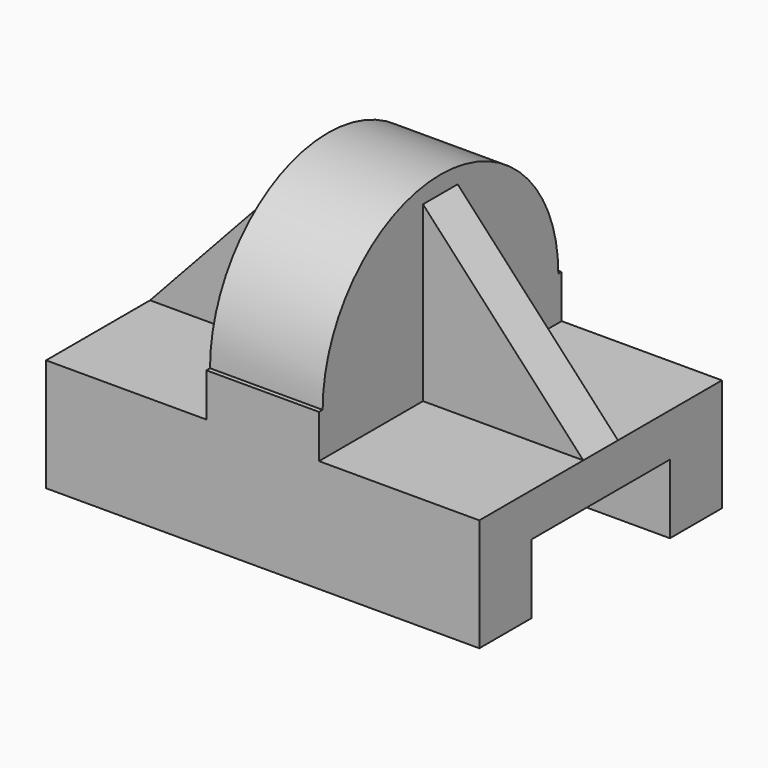
from build123d import *

# Parameters (mm, degrees)
PAD_DEPTH       = 50
SKETCH001_W     = 35
SKETCH001_H     = 13
PAD001_DEPTH    = 25
POCKET_DEPTH    = 31.501
SKETCH003_W     = 5
SKETCH003_H     = 20
PAD002_DEPTH    = 18.5
POCKET001_DEPTH = 20.001
SKETCH005_W     = 5
SKETCH005_H     = 20
PAD003_DEPTH    = 18.5
POCKET002_DEPTH = 20.001


with BuildPart() as part:
    # Sketch → Pad (new body)
    with BuildSketch(Plane.YZ):
        Polygon((17.5, 0), (17.5, 13), (-17.5, 13), (-17.5, 0), (-10, 0), (-10, 8), (10, 8), (10, 0), align=None)
    extrude(amount=PAD_DEPTH)

    # Sketch001 (on Face2 of Pad) → Pad001 (join)
    with BuildSketch(Plane(origin=(0, 0, 13), x_dir=(0, -1, 0), z_dir=(0, 0, 1))):
        with Locations((0, 25)):
            Rectangle(SKETCH001_W, SKETCH001_H)
    extrude(amount=PAD001_DEPTH)

    # Sketch002 (on Face8 of Pad001) → Pocket (cut, through all)
    with BuildSketch(Plane.YZ.offset(31.5)):
        with BuildLine():
            Line((-17.5, 38), (-17.5, 18))
            Line((-17.5, 18), (-16.975592, 18))
            ThreePointArc((17.024408, 18), (0.024408, 34.999671), (-16.975592, 18))
            Line((17.5, 18), (17.024408, 18))
            Line((17.5, 18), (17.5, 38))
            Line((17.5, 38), (-17.5, 38))
        make_face()
    extrude(amount=-POCKET_DEPTH, mode=Mode.SUBTRACT)

    # Sketch003 (on Face2 of Pocket) → Pad002 (join)
    with BuildSketch(Plane.YZ.offset(31.5)):
        with Locations((0, 23)):
            Rectangle(SKETCH003_W, SKETCH003_H)
    extrude(amount=PAD002_DEPTH)

    # Sketch004 (on Face3 of Pad002) → Pocket001 (cut, through all)
    with BuildSketch(Plane(origin=(0, -2.5, 0), x_dir=(0, 0, -1), z_dir=(0, -1, 0))):
        Polygon((-33, 50), (-33, 31.5), (-13, 50), align=None)
    extrude(amount=-POCKET001_DEPTH, mode=Mode.SUBTRACT)

    # Sketch005 (on Face6 of Pocket001) → Pad003 (join)
    with BuildSketch(Plane(origin=(18.5, 0, 0), x_dir=(0, 1, 0), z_dir=(-1, 0, 0))):
        with Locations((0, -23)):
            Rectangle(SKETCH005_W, SKETCH005_H)
    extrude(amount=PAD003_DEPTH)

    # Sketch006 (on Face20 of Pad003) → Pocket002 (cut, through all)
    with BuildSketch(Plane(origin=(0, -2.5, 0), x_dir=(0, 0, -1), z_dir=(0, -1, 0))):
        Polygon((-33, 18.5), (-33, 0), (-13, 0), align=None)
    extrude(amount=-POCKET002_DEPTH, mode=Mode.SUBTRACT)


solid = part.part
